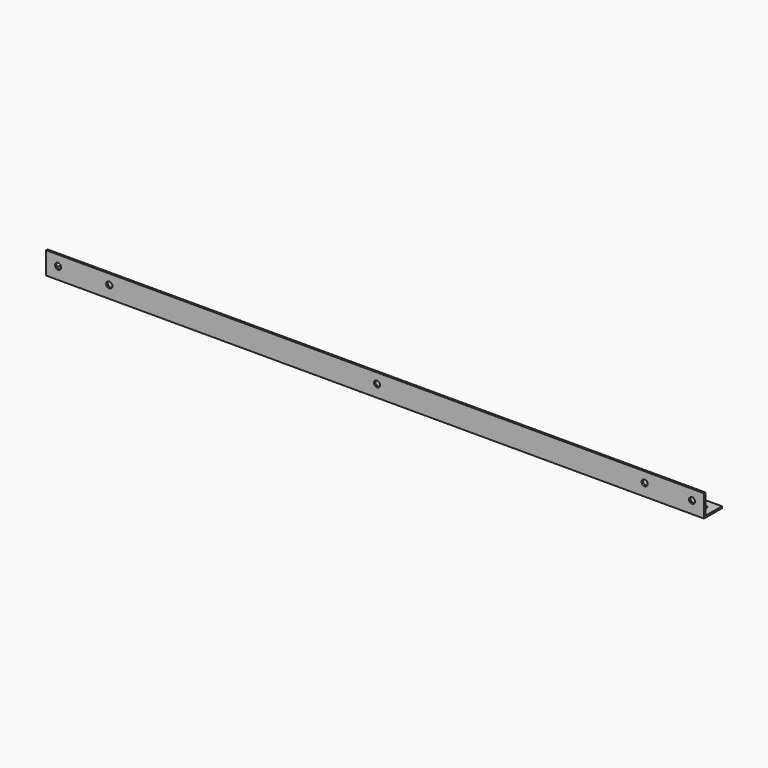
from build123d import *

# Parameters (mm, degrees)
F1_DEPTH = 561.975
F2_R     = 2.6162
F4_DEPTH = 25.4
F3_R     = 2.6162
F5_DEPTH = 25.4


with BuildPart() as f1:
    # F0 (on Right) → F1 (new body)
    with BuildSketch(Plane.YZ):
        Polygon((0, -17.4625), (0, 0), (-1.5875, 0), (-1.5875, -19.05), (17.4625, -19.05), (17.4625, -17.4625), align=None)
    extrude(amount=-F1_DEPTH)

    # F2 (on face) → F4 (cut)
    with BuildSketch(Plane(origin=(0, 0, 0), x_dir=(-1, 0, 0), z_dir=(0, 1, 0))):
        with Locations((10.31875, -8.733851)):
            Circle(F2_R)
        with Locations((279.399963, -8.636074)):
            Circle(F2_R)
        with Locations((551.6626, -8.73125)):
            Circle(F2_R)
        with Locations((508, -8.553008)):
            Circle(F2_R)
        with Locations((50.8, -8.719141)):
            Circle(F2_R)
    extrude(amount=-F4_DEPTH, mode=Mode.SUBTRACT)

    # F3 (on face) → F5 (cut)
    with BuildSketch(Plane.XY.offset(-17.4625)):
        with Locations((-8.73125, 8.73125)):
            Circle(F3_R)
        with Locations((-553.24375, 8.73125)):
            Circle(F3_R)
    extrude(amount=-F5_DEPTH, mode=Mode.SUBTRACT)


solid = f1.part
